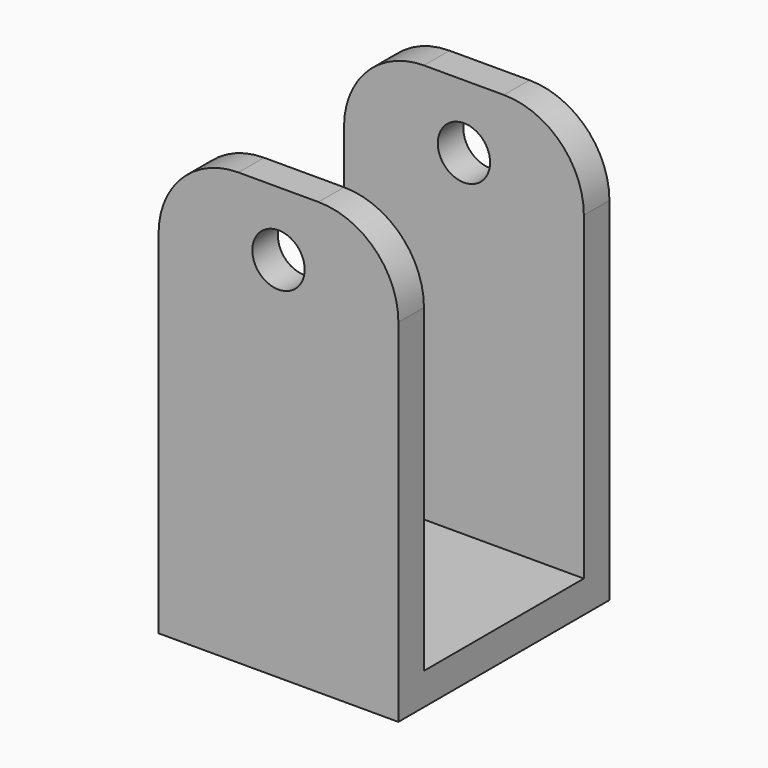
from build123d import *

# Parameters (mm, degrees)
F0_W     = 38.1
F0_H     = 41.91
F1_DEPTH = 5.08
F2_W     = 38.1
F2_H     = 5.08
F3_DEPTH = 63.5
F4_R     = 4.153748588
F5_DEPTH = 48.768
F6_R     = 12.7


with BuildPart() as f1:
    # F0 (on Top) → F1 (new body)
    with BuildSketch(Plane.XY):
        Rectangle(F0_W, F0_H)
    extrude(amount=F1_DEPTH)

    # F2 (on face) → F3 (join)
    with BuildSketch(Plane.XY.offset(5.08)):
        with Locations((0, 18.415)):
            Rectangle(F2_W, F2_H)
        with Locations((0, -18.415)):
            Rectangle(F2_W, F2_H)
    extrude(amount=F3_DEPTH)

    # F4 (on face) → F5 (cut)
    with BuildSketch(Plane.XZ.offset(20.955)):
        with Locations((0, 58.42)):
            Circle(F4_R)
    extrude(amount=-F5_DEPTH, mode=Mode.SUBTRACT)

    # F6
    f6_edges = [f1.edges().sort_by_distance(p)[0] for p in [
        (-19.05, -18.415, 68.58),
        (-19.05, 18.415, 68.58),
        (19.05, -18.415, 68.58),
        (19.05, 18.415, 68.58),
    ]]
    fillet(f6_edges, radius=F6_R)


solid = f1.part
